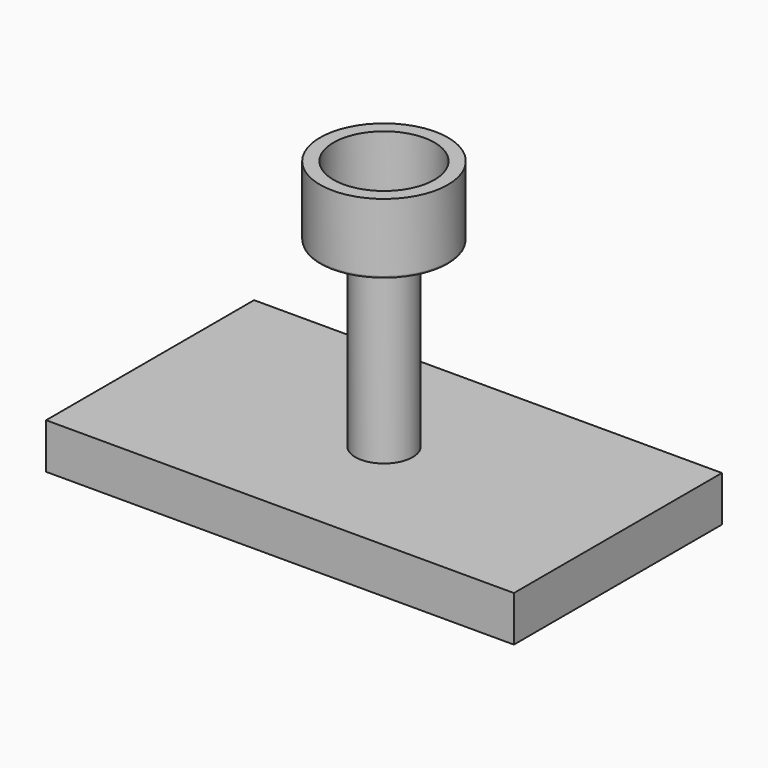
from build123d import *

# Parameters (mm, degrees)
F0_W     = 102.958694
F0_H     = 57.220538
F1_DEPTH = 10
F2_R     = 6.310234
F3_DEPTH = 40.3
F4_R     = 14.070264
F4_R_2   = 11.108131
F5_DEPTH = 15
F6_R     = 13.994763
F6_R_2   = 6.310234
F7_DEPTH = 0.3


with BuildPart() as f1:
    # F0 (on Top) → F1 (new body)
    with BuildSketch(Plane.XY):
        Rectangle(F0_W, F0_H)
    extrude(amount=F1_DEPTH)

    # F2 (on face) → F3 (join)
    with BuildSketch(Plane.XY.offset(10)):
        Circle(F2_R)
    extrude(amount=F3_DEPTH)


with BuildPart() as f5:
    # F4 (on face) → F5 (new body)
    with BuildSketch(Plane.XY.offset(50.3)):
        Circle(F4_R)
        Circle(F4_R_2, mode=Mode.SUBTRACT)
    extrude(amount=F5_DEPTH)


with BuildPart() as f7:
    # F6 (on face) → F7 (new body)
    with BuildSketch(Plane.XY.offset(50.3)):
        Circle(F6_R)
        Circle(F6_R_2, mode=Mode.SUBTRACT)
    extrude(amount=-F7_DEPTH)


solid = Compound([f1.part, f5.part, f7.part])
